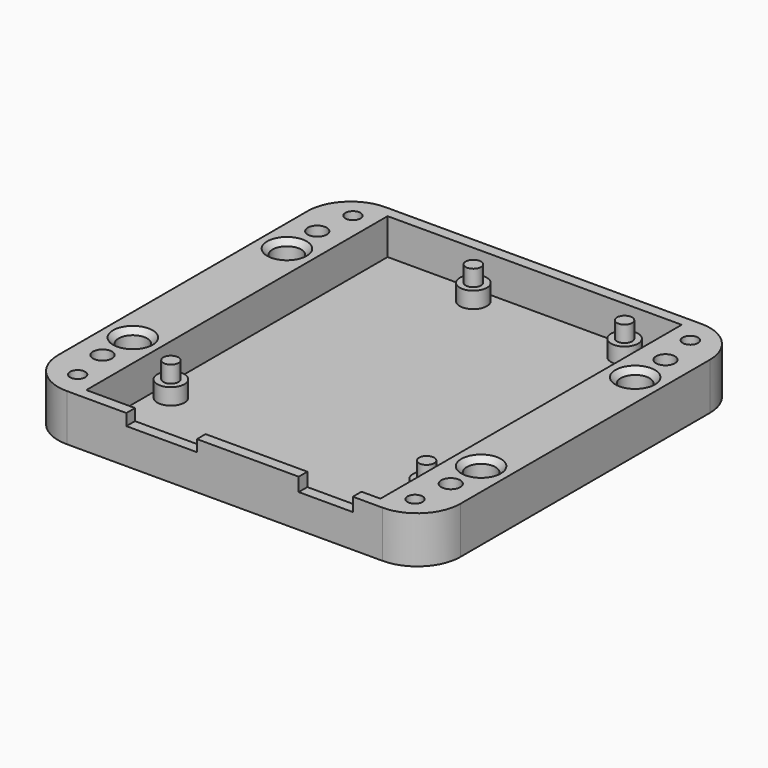
from build123d import *

# Parameters (mm, degrees)
F1_DEPTH  = 2
F2_R      = 2.5
F3_DEPTH  = 3
F4_R      = 1.4
F5_DEPTH  = 3
F6_R      = 1.4
F7_DEPTH  = 3
F8_R      = 1.4
F9_DEPTH  = 3.1
F10_R     = 1.4
F11_DEPTH = 3
F12_R     = 2.65
F12_W     = 54.34
F12_H     = 69.58
F13_DEPTH = 6.65
F14_R     = 1.75
F14_R_2   = 1.4
F15_DEPTH = 25
F16_W     = 13.04
F16_H     = 2.13
F16_W_2   = 10
F16_H_2   = 2.5
F17_DEPTH = 3
F18_SIZE  = 1


with BuildPart() as f1:
    # F0 (on Top) → F1 (new body)
    with BuildSketch(Plane.XY):
        with BuildLine():
            Line((55.84, 71.08), (-2.5, 71.08))
            ThreePointArc((-2.5, 71.08), (-8.156854, 68.736854), (-10.5, 63.08))
            Line((-10.5, 63.08), (-10.5, 5.5))
            ThreePointArc((-10.5, 5.5), (-8.156854, -0.156854), (-2.5, -2.5))
            Line((-2.5, -2.5), (55.84, -2.5))
            ThreePointArc((55.84, -2.5), (61.496854, -0.156854), (63.84, 5.5))
            Line((63.84, 5.5), (63.84, 63.08))
            ThreePointArc((63.84, 63.08), (61.496854, 68.736854), (55.84, 71.08))
        make_face()
    extrude(amount=F1_DEPTH)

    # F2 (on face) → F3 (join)
    with BuildSketch(Plane.XY.offset(2)):
        with Locations((17.78, 66.04)):
            Circle(F2_R)
        with Locations((45.72, 66.04)):
            Circle(F2_R)
        with Locations((2.54, 15.24)):
            Circle(F2_R)
        with Locations((50.8, 13.97)):
            Circle(F2_R)
    extrude(amount=F3_DEPTH)

    # F4 (on face) → F5 (join)
    with BuildSketch(Plane.XY.offset(5)):
        with Locations((17.78, 66.04)):
            Circle(F4_R)
    extrude(amount=F5_DEPTH)

    # F6 (on face) → F7 (join)
    with BuildSketch(Plane.XY.offset(5)):
        with Locations((45.72, 66.04)):
            Circle(F6_R)
    extrude(amount=F7_DEPTH)

    # F8 (on face) → F9 (join)
    with BuildSketch(Plane.XY.offset(5)):
        with Locations((2.54, 15.24)):
            Circle(F8_R)
    extrude(amount=F9_DEPTH)

    # F10 (on face) → F11 (join)
    with BuildSketch(Plane.XY.offset(5)):
        with Locations((50.8, 13.97)):
            Circle(F10_R)
    extrude(amount=F11_DEPTH)

    # F12 (on face) → F13 (join)
    with BuildSketch(Plane.XY.offset(2)):
        with BuildLine():
            ThreePointArc((-2.5, 71.08), (-8.156854, 68.736854), (-10.5, 63.08))
            Line((-10.5, 63.08), (-10.5, 5.5))
            ThreePointArc((-10.5, 5.5), (-8.156854, -0.156854), (-2.5, -2.5))
            Line((-2.5, -2.5), (55.84, -2.5))
            ThreePointArc((55.84, -2.5), (61.496854, -0.156854), (63.84, 5.5))
            Line((63.84, 5.5), (63.84, 63.08))
            ThreePointArc((63.84, 63.08), (61.496854, 68.736854), (55.84, 71.08))
            Line((55.84, 71.08), (-2.5, 71.08))
        make_face()
        with Locations((-5.5, 16.5)):
            Circle(F12_R, mode=Mode.SUBTRACT)
        with Locations((58.84, 16.5)):
            Circle(F12_R, mode=Mode.SUBTRACT)
        with Locations((-5.5, 52.08)):
            Circle(F12_R, mode=Mode.SUBTRACT)
        with Locations((26.67, 34.29)):
            Rectangle(F12_W, F12_H, mode=Mode.SUBTRACT)
        with Locations((58.84, 52.08)):
            Circle(F12_R, mode=Mode.SUBTRACT)
    extrude(amount=F13_DEPTH)

    # F14 (on face) → F15 (cut)
    with BuildSketch(Plane.XY.offset(8.65)):
        with Locations((-5.5, 9.5)):
            Circle(F14_R)
        with Locations((-4.5, 2.5)):
            Circle(F14_R_2)
        with Locations((-4.5, 66.08)):
            Circle(F14_R_2)
        with Locations((-5.5, 59.08)):
            Circle(F14_R)
        with Locations((57.84, 66.08)):
            Circle(F14_R_2)
        with Locations((58.84, 59.08)):
            Circle(F14_R)
        with Locations((58.84, 9.5)):
            Circle(F14_R)
        with Locations((57.84, 2.5)):
            Circle(F14_R_2)
    extrude(amount=-F15_DEPTH, mode=Mode.SUBTRACT)

    # F16 (on face) → F17 (cut)
    with BuildSketch(Plane.XZ.offset(2.5)):
        with Locations((15.02, 7.585)):
            Rectangle(F16_W, F16_H)
        with Locations((45.34, 7.4)):
            Rectangle(F16_W_2, F16_H_2)
    extrude(amount=-F17_DEPTH, mode=Mode.SUBTRACT)

    # F18
    f18_edges = [f1.edges().sort_by_distance(p)[0] for p in [
        (56.19, 16.5, 8.65),
        (56.19, 52.08, 8.65),
        (-8.15, 52.08, 8.65),
        (-8.15, 16.5, 8.65),
    ]]
    chamfer(f18_edges, length=F18_SIZE)


solid = f1.part
